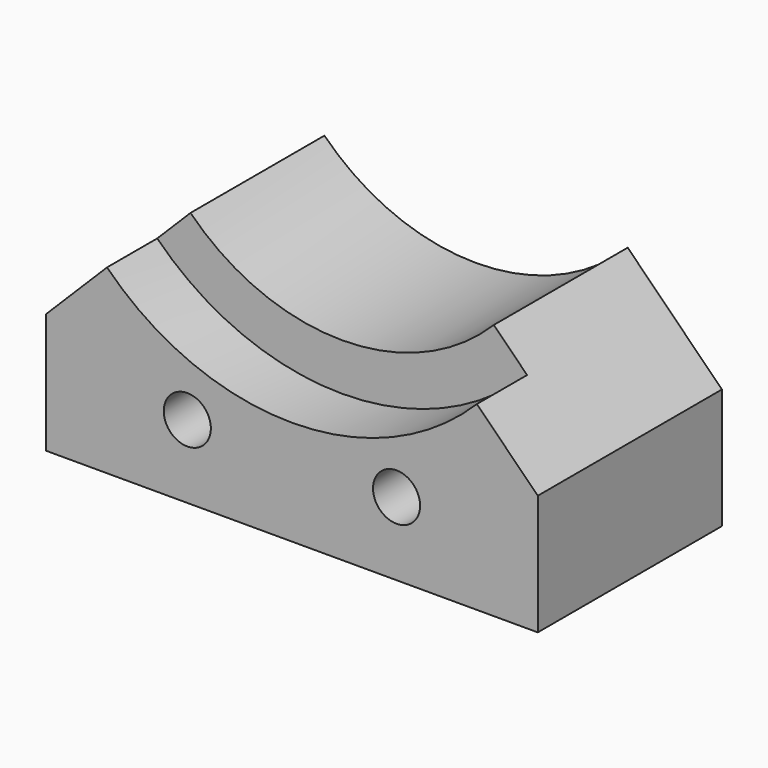
from build123d import *

# Parameters (mm, degrees)
PAD046_DEPTH     = 22
SKETCH_R         = 25
POCKET_DEPTH     = 6
HOLE_D           = 4.5
HOLE_CBORE_D     = 7.4
HOLE_CBORE_DEPTH = 4.4


with BuildPart() as part:
    # Sketch078 → Pad046 (new body)
    with BuildSketch(Plane.XZ.offset(-27)):
        with BuildLine():
            Line((-23.5, -35), (23.5, -35))
            Line((23.5, -35), (23.5, -23.5))
            Line((14.495689, -14.495689), (23.5, -23.5))
            ThreePointArc((-14.495689, -14.495689), (0, -20.5), (14.495689, -14.495689))
            Line((-23.5, -23.5), (-14.495689, -14.495689))
            Line((-23.5, -23.5), (-23.5, -35))
        make_face()
    extrude(amount=-PAD046_DEPTH)

    # Sketch → Pocket (cut)
    with BuildSketch(Plane.XZ.offset(-27)):
        Circle(SKETCH_R)
    extrude(amount=-POCKET_DEPTH, mode=Mode.SUBTRACT)

    # Hole (through all)
    with Locations(Plane(origin=(0, 49, 0), x_dir=(1, 0, 0), z_dir=(0, 1, 0))):
        with Locations((-10, 28), (10, 28)):
            CounterBoreHole(HOLE_D / 2, HOLE_CBORE_D / 2, HOLE_CBORE_DEPTH)


solid = part.part
